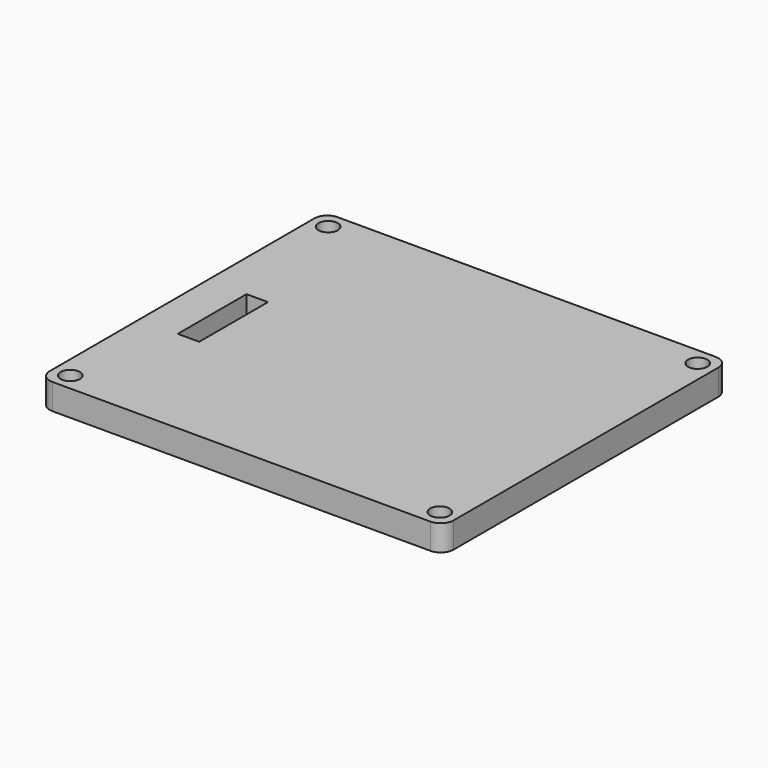
from build123d import *

# Parameters (mm, degrees)
SKETCH_W        = 94
SKETCH_H        = 83
PAD_DEPTH       = 6
SKETCH001_R     = 2.25
POCKET_DEPTH    = 6.001
FILLET_R        = 3
FILLET001_R     = 3
FILLET002_R     = 3
FILLET003_R     = 3
SKETCH002_W     = 5
SKETCH002_H     = 20
POCKET001_DEPTH = 6.001


with BuildPart() as part:
    # Sketch → Pad (new body)
    with BuildSketch(Plane.XY):
        with Locations((47, 41.5)):
            Rectangle(SKETCH_W, SKETCH_H)
    extrude(amount=PAD_DEPTH)

    # Sketch001 (on Face6 of Pad) → Pocket (cut, through all)
    with BuildSketch(Plane.XY.offset(6)):
        with Locations((4, 79)):
            Circle(SKETCH001_R)
        with Locations((90, 79)):
            Circle(SKETCH001_R)
        with Locations((90, 4)):
            Circle(SKETCH001_R)
        with Locations((4, 4)):
            Circle(SKETCH001_R)
    extrude(amount=-POCKET_DEPTH, mode=Mode.SUBTRACT)

    # Fillet
    fillet_edges = [part.edges().sort_by_distance(p)[0] for p in [
        (94, 0, 3),
    ]]
    fillet(fillet_edges, radius=FILLET_R)

    # Fillet001
    fillet001_edges = [part.edges().sort_by_distance(p)[0] for p in [
        (94, 83, 3),
    ]]
    fillet(fillet001_edges, radius=FILLET001_R)

    # Fillet002
    fillet002_edges = [part.edges().sort_by_distance(p)[0] for p in [
        (0, 83, 3),
    ]]
    fillet(fillet002_edges, radius=FILLET002_R)

    # Fillet003
    fillet003_edges = [part.edges().sort_by_distance(p)[0] for p in [
        (0, 0, 3),
    ]]
    fillet(fillet003_edges, radius=FILLET003_R)

    # Sketch002 (on Face14 of Fillet003) → Pocket001 (cut, through all)
    with BuildSketch(Plane.XY.offset(6)):
        with Locations((11.5, 39)):
            Rectangle(SKETCH002_W, SKETCH002_H)
    extrude(amount=-POCKET001_DEPTH, mode=Mode.SUBTRACT)


solid = part.part
